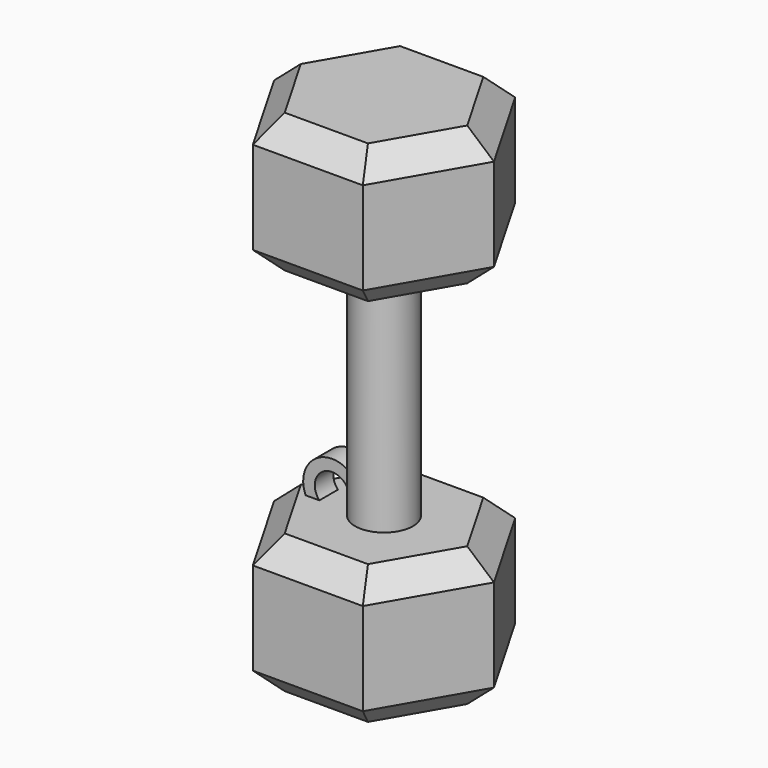
from build123d import *

# Parameters (mm, degrees)
F1_DEPTH      = 12
F2_SIZE       = 2
F3_R          = 2.5
F4_DEPTH      = 10
F7_DEPTH      = 1
F7_DEPTH_BACK = 1


with BuildPart() as f1:
    # F0 (on Top) → F1 (new body)
    with BuildSketch(Plane.XY):
        Polygon((-9.5, 0), (-4.75, -8.227241), (4.75, -8.227241), (9.5, 0), (4.75, 8.227241), (-4.75, 8.227241), align=None)
    extrude(amount=F1_DEPTH)

    # F2
    f2_edges = [f1.edges().sort_by_distance(p)[0] for p in [
        (-7.125, 4.113621, 0),
        (-7.125, -4.113621, 0),
        (0, -8.227241, 0),
        (7.125, -4.113621, 0),
        (7.125, 4.113621, 0),
        (0, 8.227241, 0),
        (-7.125, 4.113621, 12),
        (-7.125, -4.113621, 12),
        (0, -8.227241, 12),
        (7.125, -4.113621, 12),
        (7.125, 4.113621, 12),
        (0, 8.227241, 12),
    ]]
    chamfer(f2_edges, length=F2_SIZE)

    # F3 (on face) → F4 (join)
    with BuildSketch(Plane.XY.offset(12)):
        Circle(F3_R)
    extrude(amount=F4_DEPTH)

    # F5: F1 across face


with BuildPart() as f1_1:
    add(f1.part)
    add(f1.part.mirror(Plane.XY.offset(22)))

    # F6 (on Front) → F7 (join, two sides)
    with BuildSketch(Plane.XZ) as f7_sk:
        with BuildLine():
            Line((-2.217598, 13.345242), (-2.217598, 15.045078))
            ThreePointArc((-2.217598, 15.045078), (-5.263964, 14.954063), (-5.958645, 11.986564))
            Line((-5.958645, 11.986564), (-4.770151, 11.986564))
            ThreePointArc((-4.770151, 11.986564), (-4.386394, 14.342682), (-2.217598, 13.345242))
        make_face()
    extrude(amount=F7_DEPTH)
    extrude(f7_sk.sketch, amount=-F7_DEPTH_BACK)


solid = f1_1.part
